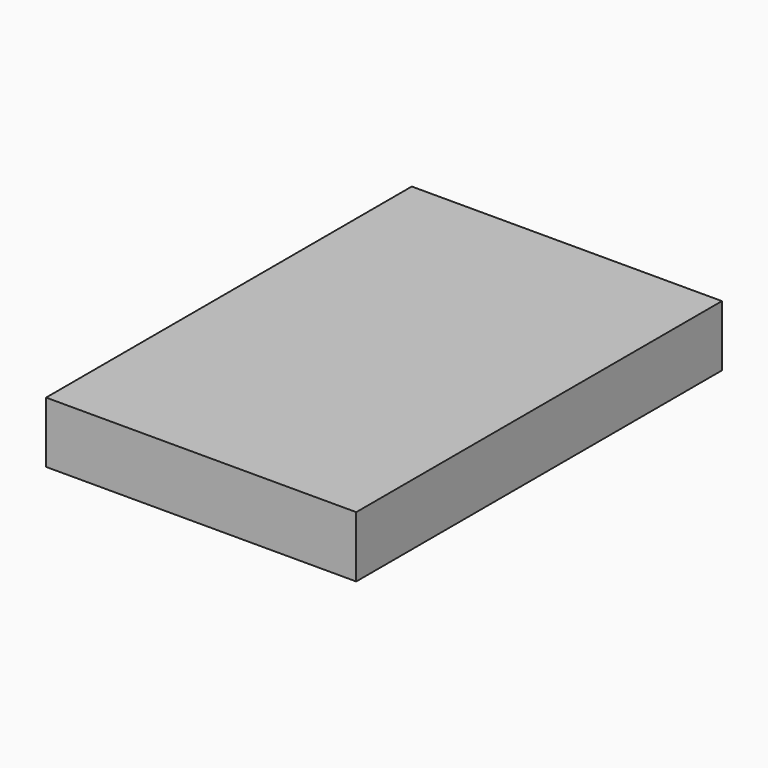
from build123d import *

# Parameters (mm, degrees)
SKETCH002_W   = 95
SKETCH002_H   = 140
PAD_DEPTH     = 2
SKETCH001_W   = 95
SKETCH001_H   = 140
SKETCH001_W_2 = 90.742981
SKETCH001_H_2 = 136.114502
SKETCH001_R   = 1
SKETCH001_R_2 = 0.7
PAD001_DEPTH  = 16.7


with BuildPart() as part:
    # Sketch002 → Pad (new body)
    with BuildSketch(Plane.XY):
        Rectangle(SKETCH002_W, SKETCH002_H)
    extrude(amount=PAD_DEPTH)

    # Sketch001 → Pad001 (join)
    with BuildSketch(Plane.XY):
        Rectangle(SKETCH001_W, SKETCH001_H)
        with Locations((-0.042641, 0.300621)):
            Rectangle(SKETCH001_W_2, SKETCH001_H_2, mode=Mode.SUBTRACT)
        with BuildLine():
            ThreePointArc((-33.5, 59.835), (-36.222361, 58.707361), (-37.35, 55.985))
            Line((-37.35, 55.985), (-37.35, 52.135))
            Line((-37.35, 52.135), (-29.65, 52.135))
            Line((-29.65, 52.135), (-29.65, 59.835))
            Line((-29.65, 59.835), (-33.5, 59.835))
        make_face()
        with Locations((-33.5, 55.985)):
            Circle(SKETCH001_R, mode=Mode.SUBTRACT)
        with BuildLine():
            ThreePointArc((36.65, 55.985), (35.727386, 58.212386), (33.5, 59.135))
            Line((33.5, 59.135), (29.65, 59.135))
            Line((29.65, 59.135), (29.65, 52.135))
            Line((29.65, 52.135), (36.65, 52.135))
            Line((36.65, 52.135), (36.65, 55.985))
        make_face()
        with Locations((33.5, 55.985)):
            Circle(SKETCH001_R, mode=Mode.SUBTRACT)
        with BuildLine():
            Line((37.35, -52.135), (29.65, -52.135))
            Line((29.65, -52.135), (29.65, -59.835))
            Line((29.65, -59.835), (33.5, -59.835))
            ThreePointArc((33.5, -59.835), (36.222361, -58.707361), (37.35, -55.985))
            Line((37.35, -55.985), (37.35, -52.135))
        make_face()
        with Locations((33.5, -55.985)):
            Circle(SKETCH001_R, mode=Mode.SUBTRACT)
        with BuildLine():
            Line((-33.5, -59.835), (-29.65, -59.835))
            Line((-29.65, -59.835), (-29.65, -52.135))
            Line((-29.65, -52.135), (-37.35, -52.135))
            Line((-37.35, -55.985), (-37.35, -52.135))
            ThreePointArc((-37.35, -55.985), (-36.222361, -58.707361), (-33.5, -59.835))
        make_face()
        with Locations((-33.5, -55.985)):
            Circle(SKETCH001_R_2, mode=Mode.SUBTRACT)
        with BuildLine():
            ThreePointArc((-29.65, 7.328333), (-30.401759, 9.143241), (-32.216667, 9.895))
            Line((-37.35, 9.895), (-32.216667, 9.895))
            Line((-37.35, 2.195), (-37.35, 9.895))
            Line((-32.216667, 2.195), (-37.35, 2.195))
            ThreePointArc((-32.216667, 2.195), (-30.401759, 2.946759), (-29.65, 4.761667))
            Line((-29.65, 7.328333), (-29.65, 4.761667))
        make_face()
        with Locations((-33.5, 6.045)):
            Circle(SKETCH001_R, mode=Mode.SUBTRACT)
        with BuildLine():
            Line((2.586847, 12.222931), (2.586847, 9.656265))
            ThreePointArc((2.586847, 9.656265), (3.338606, 7.841357), (5.153514, 7.089598))
            Line((5.153514, 7.089598), (7.72018, 7.089598))
            ThreePointArc((7.72018, 7.089598), (9.535088, 7.841357), (10.286847, 9.656265))
            Line((10.286847, 9.656265), (10.286847, 12.222931))
            ThreePointArc((10.286847, 12.222931), (9.535088, 14.037839), (7.72018, 14.789598))
            Line((7.72018, 14.789598), (5.153514, 14.789598))
            ThreePointArc((5.153514, 14.789598), (3.338606, 14.037839), (2.586847, 12.222931))
        make_face()
        with Locations((6.436847, 10.939598)):
            Circle(SKETCH001_R, mode=Mode.SUBTRACT)
    extrude(amount=-PAD001_DEPTH)


solid = part.part
